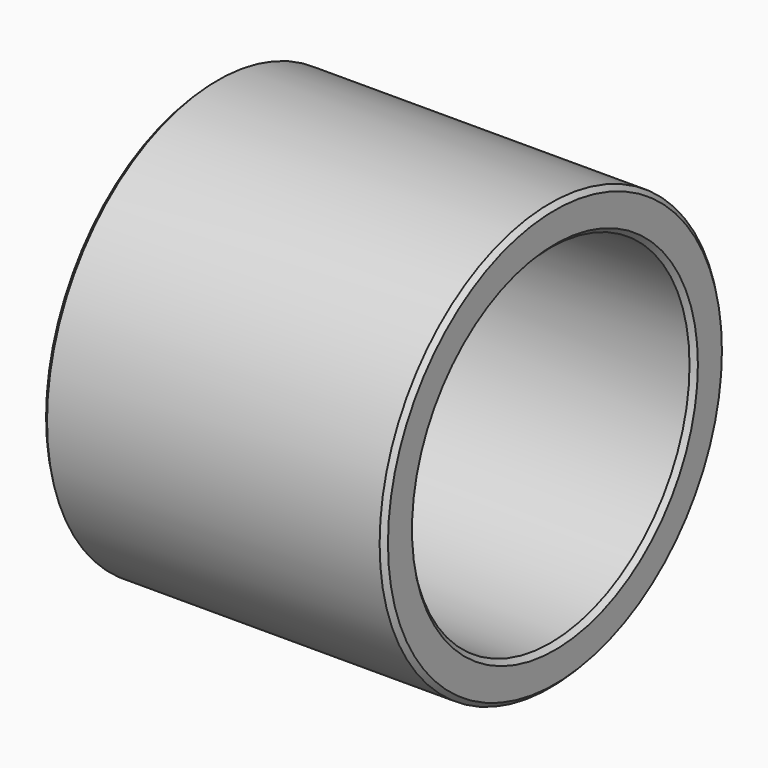
from build123d import *

# Parameters (mm, degrees)
F0_R     = 46
F0_R_2   = 37.525
F1_DEPTH = 73.706
F2_SIZE  = 1


with BuildPart() as f1:
    # F0 (on Right) → F1 (new body)
    with BuildSketch(Plane.YZ):
        Circle(F0_R)
        Circle(F0_R_2, mode=Mode.SUBTRACT)
    extrude(amount=F1_DEPTH)

    # F2
    f2_edges = [f1.edges().sort_by_distance(p)[0] for p in [
        (73.706, -46, 0),
        (73.706, -37.525, 0),
        (0, -46, 0),
        (0, -37.525, 0),
    ]]
    chamfer(f2_edges, length=F2_SIZE)


solid = f1.part
